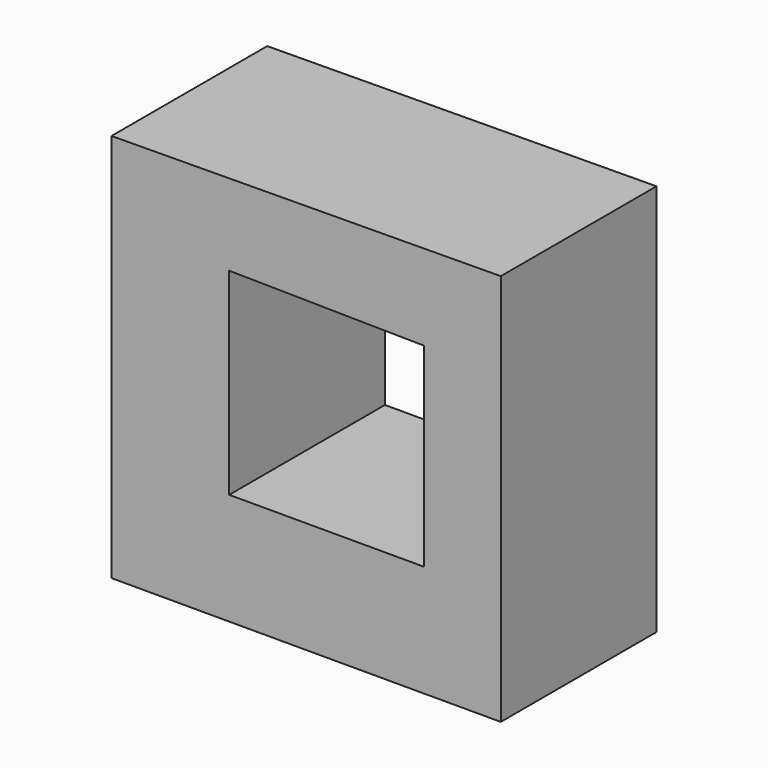
from build123d import *

# Parameters (mm, degrees)
F1_DEPTH = 25.4


with BuildPart() as f1:
    # F0 (on Front) → F1 (new body)
    with BuildSketch(Plane.XZ):
        Polygon((113.806523, 48.910319), (63.008195, 48.498162), (63.008195, -2.301838), (113.806523, -2.301838), align=None)
        Polygon((78.368865, 12.264057), (78.368865, 38.011972), (103.766482, 37.664057), (103.766482, 12.264057), align=None, mode=Mode.SUBTRACT)
    extrude(amount=F1_DEPTH)


solid = f1.part
